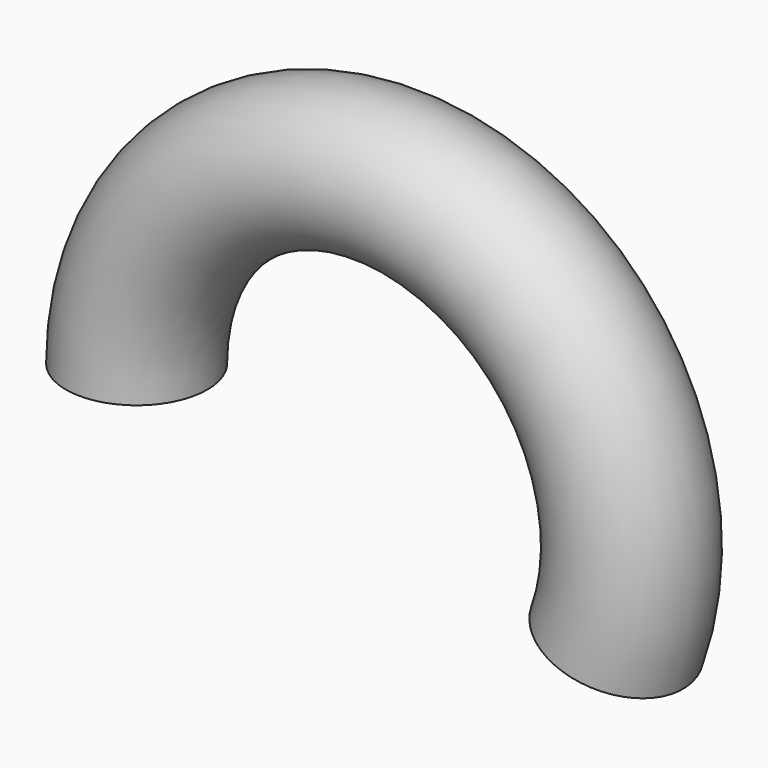
from build123d import *

# Parameters (mm, degrees)
F1_R     = 40
F1_R_2   = 20
F2_ANGLE = 200


with BuildPart() as f2:
    # F1 (on Top) → F2 (revolve)
    with BuildSketch(Plane.XY):
        with Locations((-140, 0)):
            Circle(F1_R)
        with Locations((-140, 0)):
            Circle(F1_R_2, mode=Mode.SUBTRACT)
    revolve(axis=Axis((0, 20.6754915416, 0), (0, 1, 0)), revolution_arc=F2_ANGLE)


solid = f2.part
